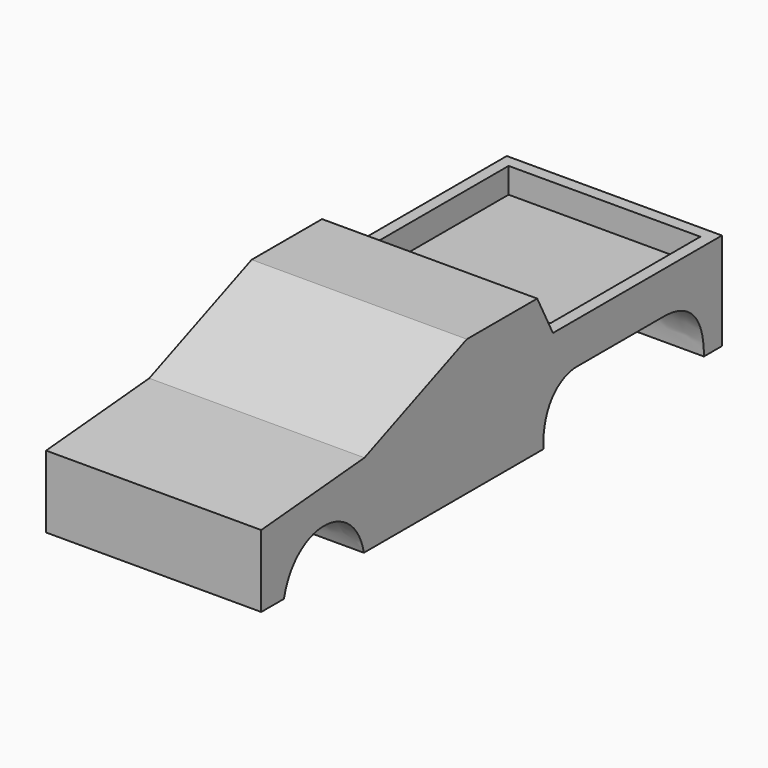
from build123d import *

# Parameters (mm, degrees)
F1_DEPTH = 26.924
F2_W     = 47.987626
F2_H     = 46.88446
F3_DEPTH = 6.35


with BuildPart() as f1:
    # F0 (on Right) → F1 (new body, symmetric)
    with BuildSketch(Plane.YZ):
        with BuildLine():
            Line((-64.30237, 9.54966), (-64.30237, -8.503878))
            Line((-64.30237, -8.503878), (-57.232525, -8.503878))
            add(Edge.make_bspline(
                [(-57.232525, -8.503878), (-53.551972, 6.674868), (-35.007033, 5.623281), (-32.202799, -8.503878)],
                knots=[0, 0, 0, 0, 25.029726, 25.029726, 25.029726, 25.029726], degree=3))
            Line((-32.202799, -8.503878), (23.917472, -8.503878))
            add(Edge.make_bspline(
                [(33.688288, 5.422598), (26.724873, 4.578994), (23.683522, -1.269759), (23.917472, -8.503878)],
                knots=[0, 0, 0, 0, 17.012219, 17.012219, 17.012219, 17.012219], degree=3))
            Line((33.688288, 5.422598), (62.469676, 5.422598))
            add(Edge.make_bspline(
                [(62.469676, 5.422598), (71.99423, 4.812944), (74.216753, -2.20556), (74.167915, -8.503878)],
                knots=[0, 0, 0, 0, 18.187785, 18.187785, 18.187785, 18.187785], degree=3))
            Line((74.167915, -8.503878), (79.810925, -8.503878))
            Line((79.810925, -8.503878), (79.810925, 15.866313))
            Line((79.810925, 15.866313), (26.938191, 15.866313))
            Line((26.938191, 15.866313), (22.025237, 25.458271))
            Line((22.025237, 25.458271), (0, 25.458271))
            Line((0, 25.458271), (-32.017246, 12.357062))
            Line((-32.017246, 12.357062), (-64.30237, 9.54966))
        make_face()
    extrude(amount=F1_DEPTH, both=True)

    # F2 (on face) → F3 (cut)
    with BuildSketch(Plane.XY.offset(15.866313)):
        with Locations((-0.038729, 53.329439)):
            Rectangle(F2_W, F2_H)
    extrude(amount=-F3_DEPTH, mode=Mode.SUBTRACT)


solid = f1.part
